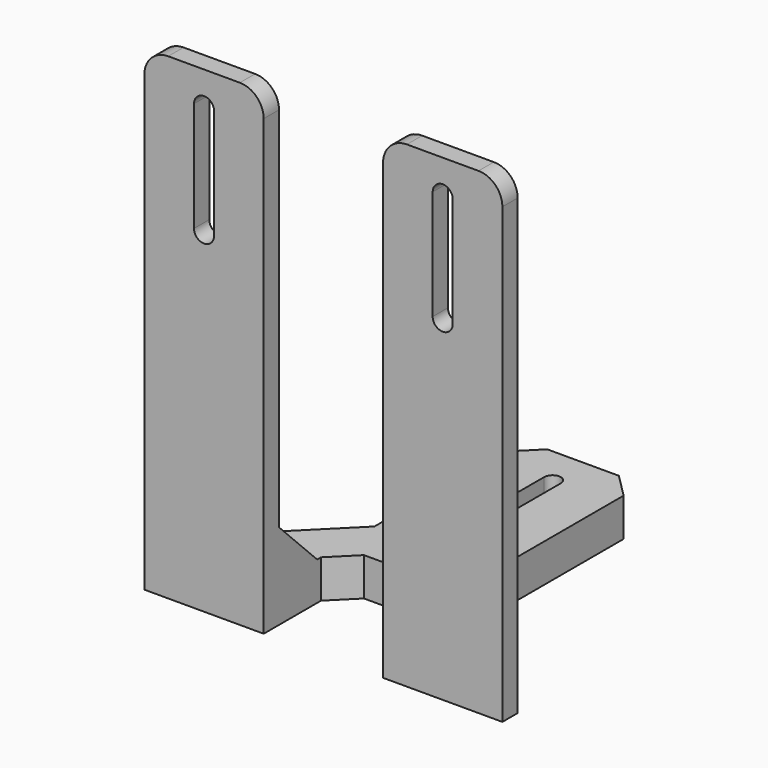
from build123d import *

# Parameters (mm, degrees)
BOX009_W        = 25
BOX009_H        = 20
BOX009_DEPTH    = 8
BOX005_W        = 25
BOX005_H        = 85
BOX005_DEPTH    = 8
BOX002_W        = 75
BOX002_H        = 4
BOX002_DEPTH    = 100
SKETCH001_W     = 25
SKETCH001_H     = 92
POCKET001_DEPTH = 5
FILLET_R        = 5
CHAMFER_SIZE    = 24.99
SKETCH002_W     = 25
SKETCH002_H     = 20
POCKET002_DEPTH = 10
CHAMFER001_SIZE = 5
CHAMFER002_SIZE = 10
POCKET003_DEPTH = 11
POCKET004_DEPTH = 4.5
CHAMFER004_SIZE = 5
BOX008_W        = 25
BOX008_H        = 35
BOX008_DEPTH    = 8
CHAMFER005_SIZE = 5
POCKET006_DEPTH = 8
POCKET007_DEPTH = 5


with BuildPart() as box009:
    # Box009 → Box009 (new body)
    with BuildSketch(Plane(origin=(43, 118, 0), x_dir=(1, 0, 0), z_dir=(0, 0, 1))):
        with Locations((12.5, 10)):
            Rectangle(BOX009_W, BOX009_H)
    extrude(amount=BOX009_DEPTH)


with BuildPart() as box005:
    # Box005 → Box005 (new body)
    with BuildSketch(Plane(origin=(43, 53, 0), x_dir=(1, 0, 0), z_dir=(0, 0, 1))):
        with Locations((12.5, 42.5)):
            Rectangle(BOX005_W, BOX005_H)
    extrude(amount=BOX005_DEPTH)


with BuildPart() as chamfer004:
    # Box002 → Box002 (new body)
    with BuildSketch(Plane(origin=(18, 50, 0), x_dir=(1, 0, 0), z_dir=(0, 0, 1))):
        with Locations((37.5, 2)):
            Rectangle(BOX002_W, BOX002_H)
    extrude(amount=BOX002_DEPTH)

    # Sketch001 → Pocket001 (cut)
    with BuildSketch(Plane(origin=(18, 54, 0), x_dir=(-1, 0, 0), z_dir=(0, 1, 0))):
        with BuildLine():
            Line((-60.4, 93), (-60.4, 70))
            ThreePointArc((-64.6, 70), (-62.5, 67.9), (-60.4, 70))
            Line((-64.6, 70), (-64.6, 93))
            ThreePointArc((-60.4, 93), (-62.5, 95.1), (-64.6, 93))
        make_face()
        with BuildLine():
            Line((-10.4, 93), (-10.4, 70))
            ThreePointArc((-14.6, 70), (-12.5, 67.9), (-10.4, 70))
            Line((-14.6, 70), (-14.6, 93))
            ThreePointArc((-10.4, 93), (-12.5, 95.1), (-14.6, 93))
        make_face()
        with Locations((-37.5, 54)):
            Rectangle(SKETCH001_W, SKETCH001_H)
    extrude(amount=-POCKET001_DEPTH, mode=Mode.SUBTRACT)

    # Fillet
    fillet_edges = [chamfer004.edges().sort_by_distance(p)[0] for p in [
        (93, 52, 100),
        (68, 52, 100),
        (43, 52, 100),
        (18, 52, 100),
    ]]
    fillet(fillet_edges, radius=FILLET_R)

    # Fusion: union Box005
    add(box005.part)

    # Chamfer
    chamfer_edges = [chamfer004.edges().sort_by_distance(p)[0] for p in [
        (43, 54, 4),
        (68, 54, 4),
    ]]
    chamfer(chamfer_edges, length=CHAMFER_SIZE)

    # Sketch002 → Pocket002 (cut)
    with BuildSketch(Plane.XY.offset(8)):
        with Locations((55.5, 60)):
            Rectangle(SKETCH002_W, SKETCH002_H)
    extrude(amount=-POCKET002_DEPTH, mode=Mode.SUBTRACT)

    # Chamfer001
    chamfer001_edges = [chamfer004.edges().sort_by_distance(p)[0] for p in [
        (43, 70, 4),
        (68, 70, 4),
    ]]
    chamfer(chamfer001_edges, length=CHAMFER001_SIZE)

    # Chamfer002
    chamfer002_edges = [chamfer004.edges().sort_by_distance(p)[0] for p in [
        (80.495, 54, 8),
        (30.505, 54, 8),
    ]]
    chamfer(chamfer002_edges, length=CHAMFER002_SIZE)

    # Sketch003 → Pocket003 (cut)
    with BuildSketch(Plane(origin=(0, 0, 0), x_dir=(1, 0, 0), z_dir=(0, 0, -1))):
        with BuildLine():
            Line((57.2, -132), (57.2, -107))
            ThreePointArc((57.2, -107), (55.5, -105.3), (53.8, -107))
            Line((53.8, -107), (53.8, -132))
            ThreePointArc((53.8, -132), (55.5, -133.7), (57.2, -132))
        make_face()
    extrude(amount=-POCKET003_DEPTH, mode=Mode.SUBTRACT)

    # Sketch004 → Pocket004 (cut)
    with BuildSketch(Plane(origin=(0, 0, 0), x_dir=(1, 0, 0), z_dir=(0, 0, -1))):
        with BuildLine():
            Line((51.75, -132), (51.75, -107))
            ThreePointArc((59.25, -107), (55.5, -103.25), (51.75, -107))
            Line((59.25, -107), (59.25, -132))
            ThreePointArc((51.75, -132), (55.5, -135.75), (59.25, -132))
        make_face()
    extrude(amount=-POCKET004_DEPTH, mode=Mode.SUBTRACT)

    # Chamfer004
    chamfer004_edges = [chamfer004.edges().sort_by_distance(p)[0] for p in [
        (43, 138, 4),
        (68, 138, 4),
    ]]
    chamfer(chamfer004_edges, length=CHAMFER004_SIZE)


with BuildPart() as pocket007:
    # Box008 → Box008 (new body)
    with BuildSketch(Plane(origin=(43, 103, 0), x_dir=(1, 0, 0), z_dir=(0, 0, 1))):
        with Locations((12.5, 17.5)):
            Rectangle(BOX008_W, BOX008_H)
    extrude(amount=BOX008_DEPTH)

    # Fusion001: union Chamfer004
    add(chamfer004.part)

    # Cut001: cut Box009
    add(box009.part, mode=Mode.SUBTRACT)

    # Chamfer005
    chamfer005_edges = [pocket007.edges().sort_by_distance(p)[0] for p in [
        (43, 118, 4),
        (68, 118, 4),
    ]]
    chamfer(chamfer005_edges, length=CHAMFER005_SIZE)

    # Sketch006 → Pocket006 (cut)
    with BuildSketch(Plane(origin=(0, 0, 0), x_dir=(1, 0, 0), z_dir=(0, 0, -1))):
        with BuildLine():
            Line((57.25, -85), (57.25, -110))
            ThreePointArc((53.75, -110), (55.5, -111.75), (57.25, -110))
            Line((53.75, -110), (53.75, -85))
            ThreePointArc((57.25, -85), (55.5, -83.25), (53.75, -85))
        make_face()
    extrude(amount=-POCKET006_DEPTH, mode=Mode.SUBTRACT)

    # Sketch007 → Pocket007 (cut)
    with BuildSketch(Plane(origin=(0, 0, 0), x_dir=(1, 0, 0), z_dir=(0, 0, -1))):
        with BuildLine():
            ThreePointArc((59.75, -85.421578), (55.5, -80.729142), (51.25, -85.421578))
            Line((51.25, -85.421578), (51.25, -110))
            ThreePointArc((51.25, -110), (55.5, -114.25), (59.75, -110))
            Line((59.75, -85.421578), (59.75, -110))
        make_face()
    extrude(amount=-POCKET007_DEPTH, mode=Mode.SUBTRACT)


solid = pocket007.part
